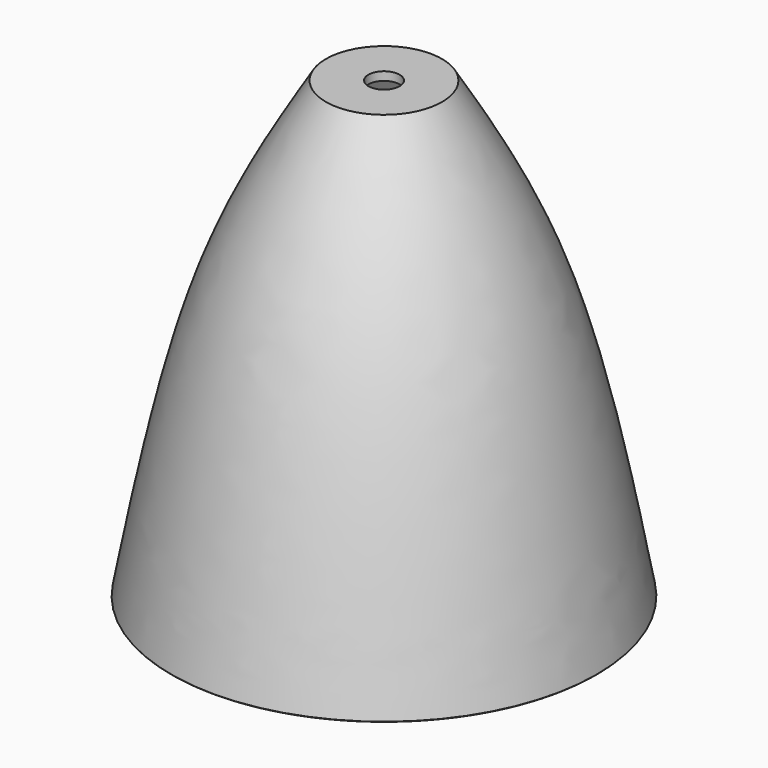
from build123d import *


with BuildPart() as f1:
    # F0 (on Front) → F1 (revolve)
    with BuildSketch(Plane.XZ):
        with BuildLine():
            add(Edge.make_bspline(
                [(0, 0), (6.5291868842, 35.4668631952), (18.6472793011, 99.7414014489), (43.1501770059, 141.3564868386), (54.5, 160)],
                knots=[0, 0, 0, 0, 0.5506466768, 1, 1, 1, 1], degree=3))
            add(Edge.make_bspline(
                [(0, 0), (0.1308692748, -0.1206062597), (0.3939623113, -0.3630670446), (0.6641903637, -0.121437011), (0.8, 0)],
                knots=[0, 0, 0, 0, 0.4974258406, 1, 1, 1, 1], degree=3))
            add(Edge.make_bspline(
                [(52.8883244039, 155.2684753143), (42.5876573247, 138.1825267382), (19.0049986854, 97.9138826849), (7.4036254141, 35.5169816417), (0.8, 0)],
                knots=[0.028447332, 0.028447332, 0.028447332, 0.028447332, 0.4469818582, 1, 1, 1, 1], degree=3))
            add(Edge.make_bspline(
                [(53.9330697915, 157), (53.5847132821, 156.4230246568), (53.2364380328, 155.8458992341), (52.8883244039, 155.2684753143)],
                knots=[0.0143028527, 0.0143028527, 0.0143028527, 0.0143028527, 0.028447332, 0.028447332, 0.028447332, 0.028447332], degree=3))
            Line((53.9330697915, 157), (69.5, 157))
            Line((69.5, 157), (69.5, 160))
            Line((69.5, 160), (54.5, 160))
        make_face()
        with BuildLine():
            add(Edge.make_bspline(
                [(53.9330697915, 157), (53.5847132821, 156.4230246568), (53.2364380328, 155.8458992341), (52.8883244039, 155.2684753143)],
                knots=[0.0143028527, 0.0143028527, 0.0143028527, 0.0143028527, 0.028447332, 0.028447332, 0.028447332, 0.028447332], degree=3))
            Line((52.8883244039, 155.2684753143), (53.9330697915, 157))
        make_face()
    revolve(axis=Axis((75, 0, 80), (0, 0, 1)))


solid = f1.part
